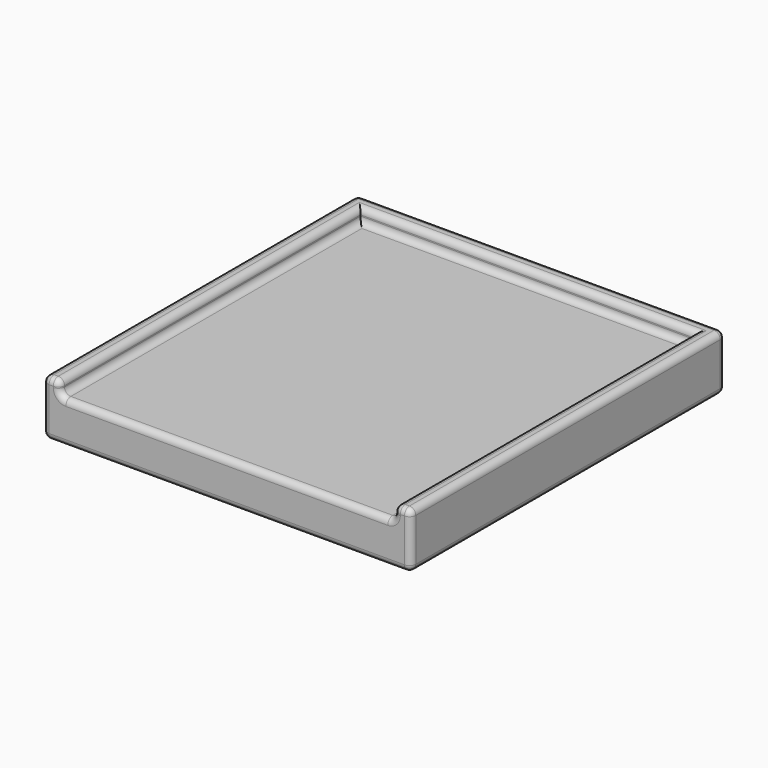
from build123d import *

# Parameters (mm, degrees)
F1_DEPTH = 47
F0_W     = 40
F0_H     = 1.6352946644
F2_DEPTH = 2
F3_R     = 0.75


with BuildPart() as f1:
    # F0 (on Front) → F1 (new body)
    with BuildSketch(Plane.XZ):
        Polygon((-0.6722141189, -1.4952032847), (-0.6722141189, -8.1304979491), (43.3277858811, -8.1304979491), (43.3277858811, -1.4952032847), (41.3277858811, -1.4952032847), (41.3277858811, -3.1304979491), (1.3277858811, -3.1304979491), (1.3277858811, -1.4952032847), align=None)
    extrude(amount=F1_DEPTH)

    # F0 (on Front) → F2 (join)
    with BuildSketch(Plane.XZ):
        with Locations((21.3277858811, -2.3128506169)):
            Rectangle(F0_W, F0_H)
    extrude(amount=F2_DEPTH)

    # F3
    f3_edges = [f1.edges().sort_by_distance(p)[0] for p in [
        (1.327786, -24.5, -1.495203),
        (0.327786, -47, -1.495203),
        (-0.672214, -23.5, -1.495203),
        (21.327786, 0, -1.495203),
        (43.327786, -23.5, -1.495203),
        (42.327786, -47, -1.495203),
        (41.327786, -24.5, -1.495203),
        (21.327786, -2, -1.495203),
        (21.327786, -2, -3.130498),
        (1.327786, -24.5, -3.130498),
        (21.327786, -47, -3.130498),
        (41.327786, -24.5, -3.130498),
        (-0.672214, -23.5, -8.130498),
        (43.327786, -23.5, -8.130498),
        (21.327786, 0, -8.130498),
        (21.327786, -47, -8.130498),
        (-0.672214, 0, -4.812851),
        (43.327786, 0, -4.812851),
        (-0.672214, -47, -4.812851),
        (1.327786, -47, -2.312851),
        (43.327786, -47, -4.812851),
        (41.327786, -47, -2.312851),
    ]]
    fillet(f3_edges, radius=F3_R)


solid = f1.part
